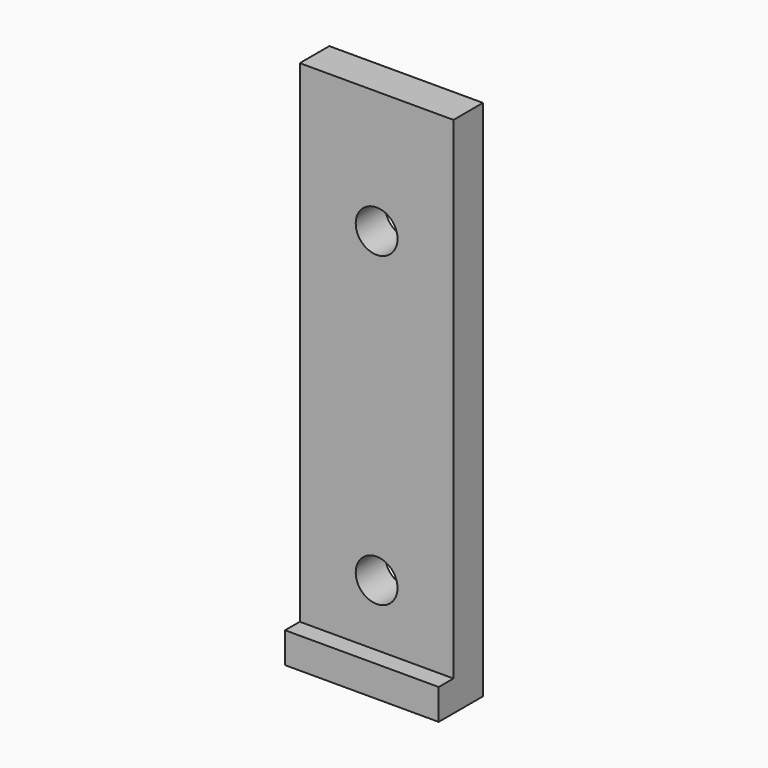
from build123d import *

# Parameters (mm, degrees)
F1_DEPTH = 25
F3_D     = 6.8


with BuildPart() as f1:
    # F0 (on Right) → F1 (new body)
    with BuildSketch(Plane.YZ):
        Polygon((0, 0), (0, 85), (-6, 85), (-6, 5), (-9, 5), (-9, 0), align=None)
    extrude(amount=-F1_DEPTH)

    # F3 (through all)
    with Locations(Plane.XZ.offset(6)):
        with Locations((-12.5, 65), (-12.5, 15)):
            Hole(F3_D / 2)


solid = f1.part
